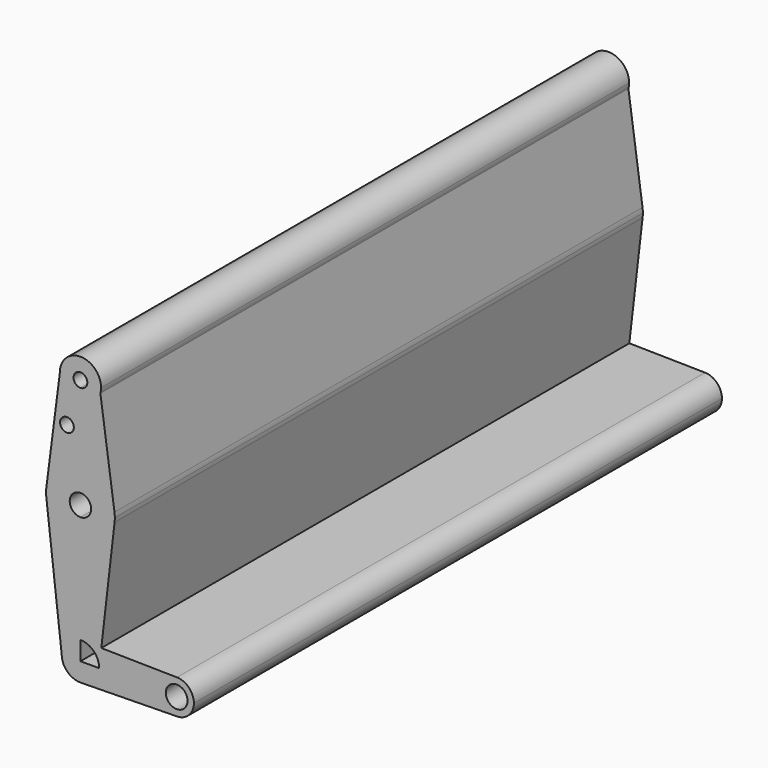
from build123d import *

# Parameters (mm, degrees)
F0_R     = 3.175
F1_DEPTH = 304.8


with BuildPart() as f1:
    # F0 (on Front) → F1 (new body)
    with BuildSketch(Plane.XZ):
        with BuildLine():
            ThreePointArc((-8.659364025, 0), (-6.1230950229, 6.1230950229), (0, 8.659364025))
            Line((0, 8.659364025), (0, 47.625))
            ThreePointArc((0, 47.625), (-10.5629643347, 51.649286542), (-15.7705402958, 61.6818460519))
            Line((-15.7705402958, 61.6818460519), (-8.659364025, 0))
        make_face()
        with BuildLine():
            Line((0, 0), (0, 8.659364025))
            ThreePointArc((0, 8.659364025), (-6.1230950229, 6.1230950229), (-8.659364025, 0))
            ThreePointArc((-8.659364025, 0), (-6.1230950229, -6.1230950229), (0, -8.659364025))
            Line((0, -8.659364025), (0.280774147, -8.65481087))
            ThreePointArc((0.280774147, -8.65481087), (6.2215717815, -6.023008375), (8.659364025, 0))
            Line((8.659364025, 0), (0, 0))
        make_face()
        with BuildLine():
            Line((0, 47.625), (0, 8.659364025))
            ThreePointArc((0, 8.659364025), (0.1404055313, 8.6582256615), (0.280774147, 8.65481087))
            Line((0.280774147, 8.65481087), (9.6395793759, 8.5030444376))
            Line((9.6395793759, 8.5030444376), (15.7541229807, 61.5446907891))
            ThreePointArc((15.7541229807, 61.5446907891), (10.5113056106, 51.6034425416), (0, 47.625))
        make_face()
        with BuildLine():
            ThreePointArc((-15.7705402958, 61.6818460519), (-10.5629643347, 51.649286542), (0, 47.625))
            Line((0, 47.625), (0, 58.5521759251))
            ThreePointArc((0, 58.5521759251), (-4.9478240749, 63.5), (0, 68.4478240749))
            Line((0, 68.4478240749), (0, 79.375))
            ThreePointArc((0, 79.375), (-10.4868267952, 75.4181411624), (-15.7459504997, 65.5200663015))
            ThreePointArc((-15.7459504997, 65.5200663015), (-15.874674223, 63.6017020852), (-15.7705402958, 61.6818460519))
        make_face()
        with BuildLine():
            Line((0, 58.5521759251), (0, 47.625))
            ThreePointArc((0, 47.625), (10.5113056106, 51.6034425416), (15.7541229807, 61.5446907891))
            ThreePointArc((15.7541229807, 61.5446907891), (15.844751928, 62.5204790247), (15.875, 63.5))
            ThreePointArc((15.875, 63.5), (15.8361352212, 64.6101559607), (15.7197311802, 65.7148762091))
            ThreePointArc((15.7197311802, 65.7148762091), (10.4128397947, 75.4828374106), (0, 79.375))
            Line((0, 79.375), (0, 68.4478240749))
            ThreePointArc((0, 68.4478240749), (3.4986399555, 66.9986399555), (4.9478240749, 63.5))
            ThreePointArc((4.9478240749, 63.5), (3.4986399555, 60.0013600445), (0, 58.5521759251))
        make_face()
        with BuildLine():
            Line((9.6395793759, 8.5030444376), (0.280774147, 8.65481087))
            ThreePointArc((0.280774147, 8.65481087), (6.2215717815, 6.023008375), (8.659364025, 0))
            Line((8.659364025, 0), (9.6395793759, 8.5030444376))
        make_face()
        with BuildLine():
            Line((9.6395793759, 8.5030444376), (8.659364025, 0))
            Line((8.659364025, 0), (36.5125, 0))
            ThreePointArc((36.5125, 0), (38.8830285623, 5.6579797863), (44.578701011, 7.936456533))
            Line((44.578701011, 7.936456533), (9.6395793759, 8.5030444376))
        make_face()
        with BuildLine():
            Line((36.5125, 0), (8.659364025, 0))
            ThreePointArc((8.659364025, 0), (6.2215717815, -6.023008375), (0.280774147, -8.65481087))
            Line((0.280774147, -8.65481087), (44.578701011, -7.936456533))
            ThreePointArc((44.578701011, -7.936456533), (38.8830285623, -5.6579797863), (36.5125, 0))
        make_face()
        with BuildLine():
            Line((0.280774147, -8.65481087), (0, -8.659364025))
            ThreePointArc((0, -8.659364025), (0.1404055313, -8.6582256615), (0.280774147, -8.65481087))
        make_face()
        with BuildLine():
            ThreePointArc((44.578701011, 7.936456533), (38.8830285623, 5.6579797863), (36.5125, 0))
            ThreePointArc((36.5125, 0), (38.8830285623, -5.6579797863), (44.578701011, -7.936456533))
            ThreePointArc((44.578701011, -7.936456533), (50.1079797863, -5.5669714377), (52.3875, 0))
            ThreePointArc((52.3875, 0), (50.1079797863, 5.5669714377), (44.578701011, 7.936456533))
        make_face()
        with BuildLine():
            ThreePointArc((49.473470006, 0), (44.45, -5.023470006), (39.426529994, 0))
            ThreePointArc((39.426529994, 0), (44.45, 5.023470006), (49.473470006, 0))
        make_face(mode=Mode.SUBTRACT)
        with BuildLine():
            Line((-9.5214193107, 114.0388500233), (-15.7459504997, 65.5200663015))
            ThreePointArc((-15.7459504997, 65.5200663015), (-10.4868267952, 75.4181411624), (0, 79.375))
            Line((0, 79.375), (0, 104.775))
            ThreePointArc((0, 104.775), (-6.6422199403, 107.4731017831), (-9.5214193107, 114.0388500233))
        make_face()
        with Locations((-6.2311487272, 94.0721482038)):
            Circle(F0_R, mode=Mode.SUBTRACT)
        with BuildLine():
            Line((0, 104.775), (0, 79.375))
            ThreePointArc((0, 79.375), (10.4128397947, 75.4828374106), (15.7197311802, 65.7148762091))
            Line((15.7197311802, 65.7148762091), (9.2142159383, 111.8867346514))
            ThreePointArc((9.2142159383, 111.8867346514), (5.8197625619, 106.7597089763), (0, 104.775))
        make_face()
        with BuildLine():
            ThreePointArc((9.525, 114.3), (-0.1305872617, 123.8241047856), (-9.5214193107, 114.0388500233))
            ThreePointArc((-9.5214193107, 114.0388500233), (-6.6422199403, 107.4731017831), (0, 104.775))
            ThreePointArc((0, 104.775), (5.8197625619, 106.7597089763), (9.2142159383, 111.8867346514))
            ThreePointArc((9.2142159383, 111.8867346514), (9.4469844874, 113.0834026574), (9.525, 114.3))
        make_face()
        with BuildLine():
            ThreePointArc((3.175, 114.3), (2.2450640303, 112.0549359697), (0, 111.125))
            ThreePointArc((0, 111.125), (-2.2450640303, 116.5450640303), (3.175, 114.3))
        make_face(mode=Mode.SUBTRACT)
    extrude(amount=F1_DEPTH)


solid = f1.part
